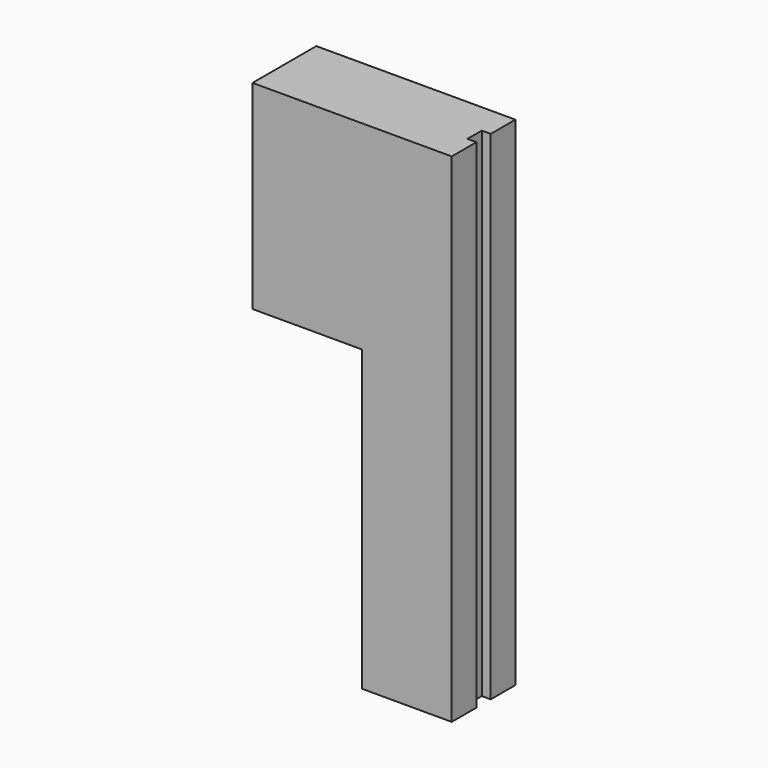
from build123d import *

# Parameters (mm, degrees)
F1_DEPTH = 4
F3_DEPTH = 25


with BuildPart() as f1:
    # F0 (on Front) → F1 (new body)
    with BuildSketch(Plane.XZ):
        Polygon((10.934058, -4.147178), (10.934058, 5.852822), (2.934058, 5.852822), (-1.065942, 5.852822), (-9.065942, 5.852822), (-9.065942, -4.147178), (-3.565942, -4.147178), (-3.565942, -19.147178), (5.434058, -19.147178), (5.434058, -4.147178), align=None)
    extrude(amount=F1_DEPTH)

    # F2 (on face) → F3 (cut)
    with BuildSketch(Plane.XY.offset(5.852822)):
        Polygon((10.934058, -4), (10.934058, 0), (0.934058, 0), (0.934058, -1.55), (0.484058, -1.55), (0.484058, -2.45), (0.934058, -2.45), (0.934058, -4), align=None)
    extrude(amount=-F3_DEPTH, mode=Mode.SUBTRACT)


solid = f1.part
